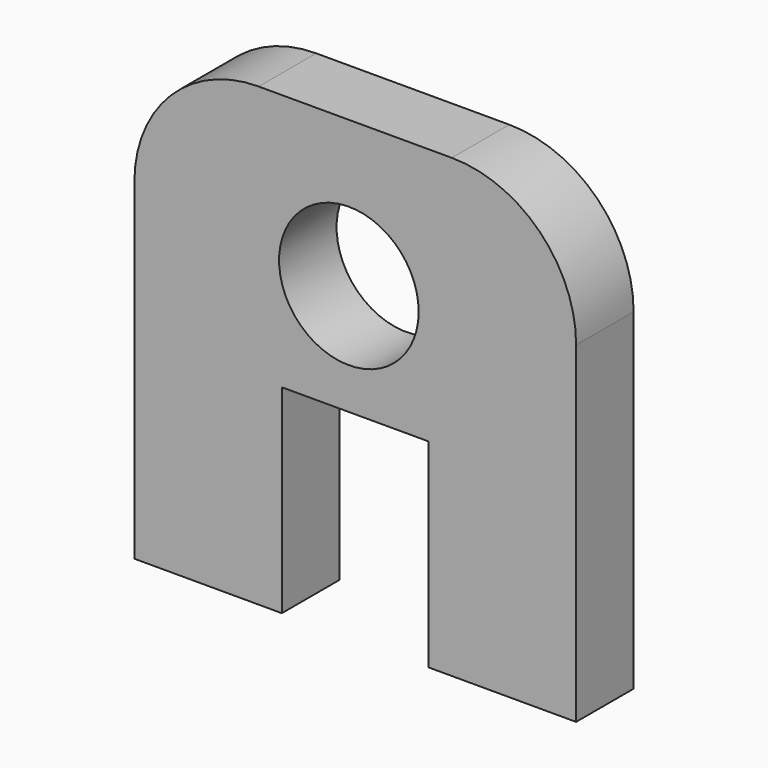
from build123d import *

# Parameters (mm, degrees)
F0_R     = 3.564317
F1_DEPTH = 3.67
F2_W     = 6.358407
F2_H     = 16.24717
F2_W_2   = 6.882895
F3_DEPTH = 3.671


with BuildPart() as f1:
    # F0 (on Front) → F1 (new body)
    with BuildSketch(Plane.XZ):
        with BuildLine():
            Line((-57.980799, 32.232953), (-57.980799, 22.072953))
            Line((-57.980799, 22.072953), (-50.450799, 22.072953))
            Line((-50.450799, 22.072953), (-50.450799, 32.232953))
            Line((-50.450799, 32.232953), (-42.950799, 32.232953))
            Line((-42.950799, 32.232953), (-42.950799, 22.072953))
            Line((-42.950799, 22.072953), (-35.420799, 22.072953))
            Line((-35.420799, 22.072953), (-35.420799, 32.232953))
            Line((-35.420799, 32.232953), (-35.420799, 39.0198))
            ThreePointArc((-35.420799, 39.0198), (-37.280671, 43.509928), (-41.770799, 45.3698))
            Line((-41.770799, 45.3698), (-51.630799, 45.3698))
            ThreePointArc((-51.630799, 45.3698), (-56.120927, 43.509928), (-57.980799, 39.0198))
            Line((-57.980799, 39.0198), (-57.980799, 32.232953))
        make_face()
        with Locations((-47.026487, 37.899723)):
            Circle(F0_R, mode=Mode.SUBTRACT)
    extrude(amount=F1_DEPTH)

    # F2 (on face) → F3 (cut, through all)
    with BuildSketch(Plane.XZ.offset(3.67)):
        with Locations((-61.160002, 30.196538)):
            Rectangle(F2_W, F2_H)
        with Locations((-31.979351, 30.196538)):
            Rectangle(F2_W_2, F2_H)
    extrude(amount=-F3_DEPTH, mode=Mode.SUBTRACT)


solid = f1.part
